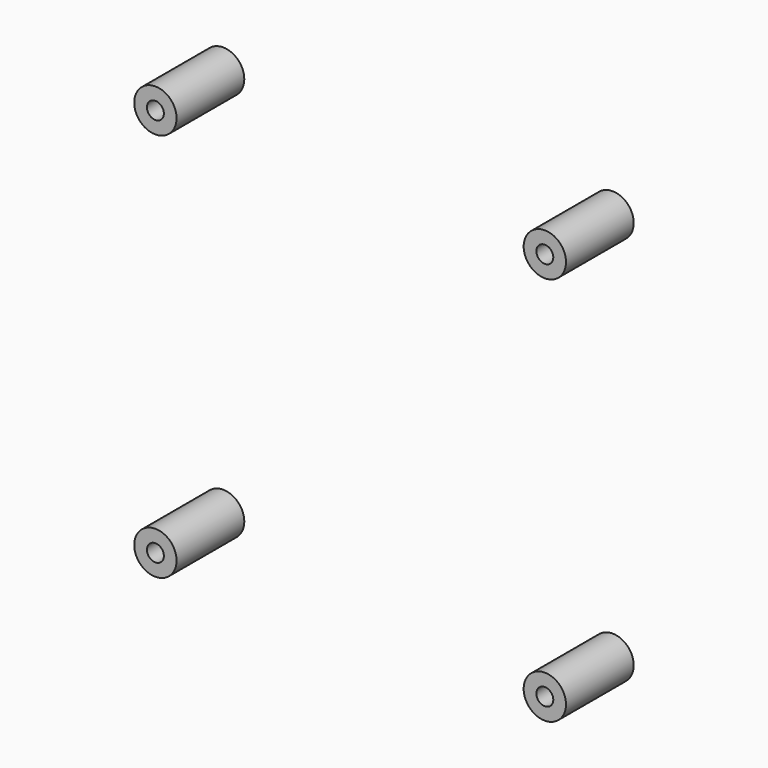
from build123d import *

# Parameters (mm, degrees)
TUBE005_R     = 5
TUBE005_R_2   = 2
TUBE005_DEPTH = 20
TUBE006_R     = 5
TUBE006_R_2   = 2
TUBE006_DEPTH = 20
TUBE007_R     = 5
TUBE007_R_2   = 2
TUBE007_DEPTH = 20
TUBE004_R     = 5
TUBE004_R_2   = 2
TUBE004_DEPTH = 20


with BuildPart() as tube005:
    # Tube005 → Tube005 (new body)
    with BuildSketch(Plane(origin=(-46, -2, 46), x_dir=(1, 0, 0), z_dir=(0, -1, 0))):
        Circle(TUBE005_R)
        Circle(TUBE005_R_2, mode=Mode.SUBTRACT)
    extrude(amount=TUBE005_DEPTH)


with BuildPart() as tube006:
    # Tube006 → Tube006 (new body)
    with BuildSketch(Plane(origin=(-46, -2, -46), x_dir=(1, 0, 0), z_dir=(0, -1, 0))):
        Circle(TUBE006_R)
        Circle(TUBE006_R_2, mode=Mode.SUBTRACT)
    extrude(amount=TUBE006_DEPTH)


with BuildPart() as tube007:
    # Tube007 → Tube007 (new body)
    with BuildSketch(Plane(origin=(46, -2, -46), x_dir=(1, 0, 0), z_dir=(0, -1, 0))):
        Circle(TUBE007_R)
        Circle(TUBE007_R_2, mode=Mode.SUBTRACT)
    extrude(amount=TUBE007_DEPTH)


with BuildPart() as m3_screws001:
    # Tube004 → Tube004 (new body)
    with BuildSketch(Plane(origin=(46, -2, 46), x_dir=(1, 0, 0), z_dir=(0, -1, 0))):
        Circle(TUBE004_R)
        Circle(TUBE004_R_2, mode=Mode.SUBTRACT)
    extrude(amount=TUBE004_DEPTH)

    # Fusion002: union Tube005, Tube006, Tube007
    add(tube005.part)
    add(tube006.part)
    add(tube007.part)


with BuildPart() as m3_screws001_1:
    # Fusion002 placement: moved
    add(m3_screws001.part.moved(Location((0, 40, 0))))


solid = m3_screws001_1.part
